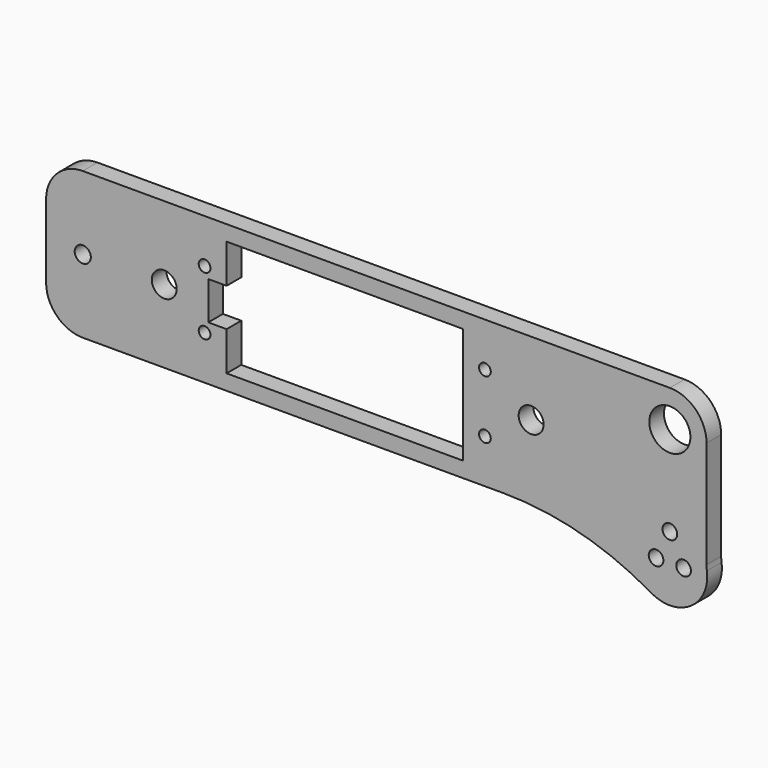
from build123d import *

# Parameters (mm, degrees)
F0_R     = 1.27
F0_R_2   = 1.397
F0_R_3   = 3.556
F1_DEPTH = 3.175
F3_D     = 2.032
F5_D     = 4.318
F6_R     = 6.35


with BuildPart() as f1:
    # F0 (on Front) → F1 (new body)
    with BuildSketch(Plane.XZ):
        with BuildLine():
            Line((57.15, -12.7), (57.15, 12.7))
            Line((57.15, 12.7), (-57.15, 12.7))
            Line((-57.15, 12.7), (-57.15, -12.7))
            Line((-57.15, -12.7), (22.03733, -12.7))
            ThreePointArc((22.03733, -12.7), (35.247098, -14.447558), (47.548013, -19.569998))
            ThreePointArc((47.548013, -19.569998), (54.568108, -19.23657), (57.15, -12.7))
        make_face()
        with Locations((48.41875, -13.97)):
            Circle(F0_R, mode=Mode.SUBTRACT)
        with Locations((53.18125, -13.97)):
            Circle(F0_R, mode=Mode.SUBTRACT)
        with Locations((50.8, -9.2075)):
            Circle(F0_R, mode=Mode.SUBTRACT)
        with Locations((-50.8, 0)):
            Circle(F0_R_2, mode=Mode.SUBTRACT)
        Polygon((-25.908, 10.033), (14.986, 10.033), (14.986, -10.033), (-25.908, -10.033), (-25.908, -3.302), (-29.083, -3.302), (-29.083, 3.302), (-25.908, 3.302), align=None, mode=Mode.SUBTRACT)
        with Locations((50.8, 6.35)):
            Circle(F0_R_3, mode=Mode.SUBTRACT)
    extrude(amount=F1_DEPTH)

    # F3 (through all)
    with Locations(Plane.XZ.offset(3.175)):
        with Locations((-29.718, 5.08), (18.796, 5.08), (18.796, -5.08), (-29.718, -5.08)):
            Hole(F3_D / 2)

    # F5 (through all)
    with Locations(Plane(origin=(0, 0, 0), x_dir=(1, 0, 0), z_dir=(0, 1, 0))):
        with Locations((-36.703, 0), (26.797, 0)):
            Hole(F5_D / 2)

    # F6
    f6_edges = [f1.edges().sort_by_distance(p)[0] for p in [
        (-57.15, -1.5875, 12.7),
        (-57.15, -1.5875, -12.7),
        (57.15, -1.5875, 12.7),
        (57.15, -1.5875, -12.7),
    ]]
    fillet(f6_edges, radius=F6_R)


solid = f1.part
